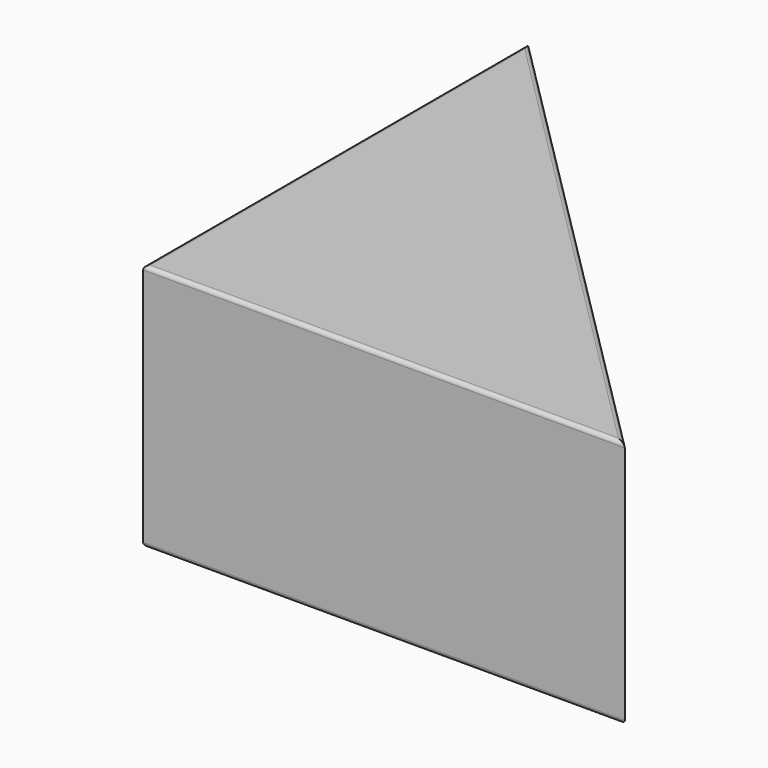
from build123d import *

# Parameters (mm, degrees)
F1_DEPTH = 12.5
F2_R     = 0.2


with BuildPart() as f1:
    # F0 (on Top) → F1 (new body)
    with BuildSketch(Plane.XY):
        Polygon((0, 24.3), (0, 0), (24.3, 0), align=None)
    extrude(amount=-F1_DEPTH)

    # F2
    f2_edges = [f1.edges().sort_by_distance(p)[0] for p in [
        (0, 12.15, 0),
        (12.15, 0, 0),
        (12.15, 12.15, 0),
        (0, 12.15, -12.5),
        (12.15, 0, -12.5),
        (12.15, 12.15, -12.5),
    ]]
    fillet(f2_edges, radius=F2_R)


solid = f1.part
